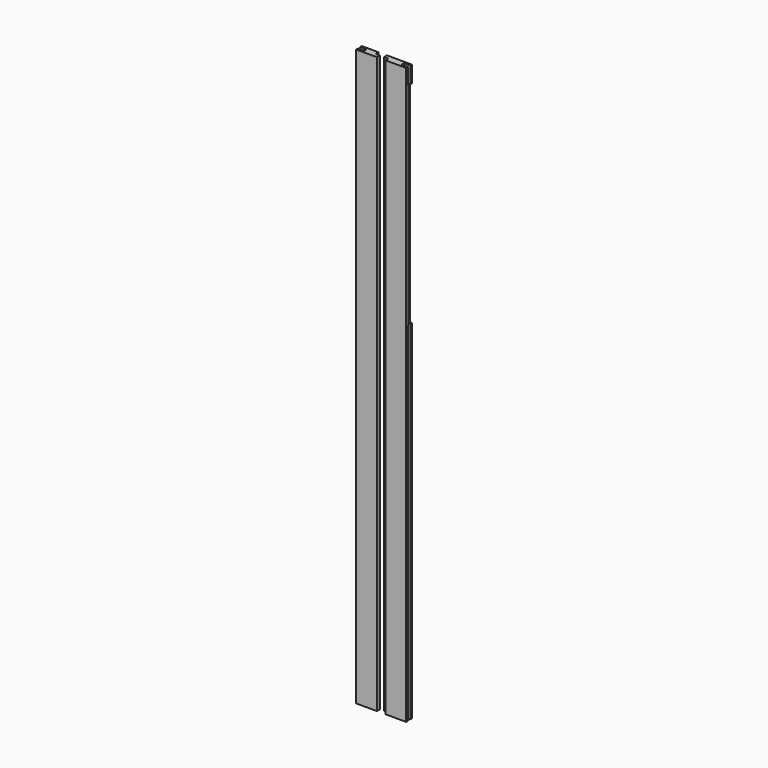
from build123d import *

# Parameters (mm, degrees)
F0_W      = 76.2
F0_H      = 1778
F1_DEPTH  = 22.225
F2_W      = 9.525
F2_H      = 38.1
F2_H_2    = 47.625
F2_H_3    = 53.975
F3_DEPTH  = 38.1
F2_H_4    = 25.4
F2_H_5    = 31.75
F4_DEPTH  = 19.05
F5_W      = 76.2
F5_H      = 12.7
F6_DEPTH  = 22.226
F7_W      = 9.525
F7_H      = 939.8
F8_DEPTH  = 9.525
F10_DEPTH = 6.35
F12_W     = 12.7
F12_H     = 11.1125
F13_DEPTH = 1752.6
F14_W     = 12.7
F14_H     = 11.1125
F15_DEPTH = 1752.6


with BuildPart() as f1:
    # F0 (on Front) → F1 (new body)
    with BuildSketch(Plane.XZ):
        with Locations((-38.1, 889)):
            Rectangle(F0_W, F0_H)
    extrude(amount=F1_DEPTH)

    # F2 (on face) → F3 (cut)
    with BuildSketch(Plane(origin=(-76.2, 0, 0), x_dir=(0, -1, 0), z_dir=(-1, 0, 0))):
        with Locations((11.1125, 1733.55)):
            Rectangle(F2_W, F2_H)
        with Locations((11.1125, 55.5625)):
            Rectangle(F2_W, F2_H_2)
        with Locations((11.1125, 1046.1625)):
            Rectangle(F2_W, F2_H_3)
    extrude(amount=-F3_DEPTH, mode=Mode.SUBTRACT)

    # F2 (on face) → F4 (cut)
    with BuildSketch(Plane(origin=(-76.2, 0, 0), x_dir=(0, -1, 0), z_dir=(-1, 0, 0))):
        with Locations((11.1125, 1765.3)):
            Rectangle(F2_W, F2_H_4)
        with Locations((11.1125, 15.875)):
            Rectangle(F2_W, F2_H_5)
    extrude(amount=-F4_DEPTH, mode=Mode.SUBTRACT)

    # F5 (on face) → F6 (cut, through all)
    with BuildSketch(Plane.XZ.offset(22.225)):
        with Locations((-38.1, 1771.65)):
            Rectangle(F5_W, F5_H)
        with Locations((-38.1, 6.35)):
            Rectangle(F5_W, F5_H)
    extrude(amount=-F6_DEPTH, mode=Mode.SUBTRACT)

    # F7 (on face) → F8 (cut)
    with BuildSketch(Plane(origin=(-76.2, 0, 0), x_dir=(0, -1, 0), z_dir=(-1, 0, 0))):
        with Locations((11.1125, 549.275)):
            Rectangle(F7_W, F7_H)
        with Locations((11.1125, 549.275)):
            Rectangle(F7_W, F7_H)
    extrude(amount=-F8_DEPTH, mode=Mode.SUBTRACT)

    # F9 (on face) → F10 (cut)
    with BuildSketch(Plane(origin=(-76.2, 0, 0), x_dir=(0, -1, 0), z_dir=(-1, 0, 0))):
        Polygon((6.35, 1714.5), (0, 1714.5), (0, 1073.15), (6.35, 1073.15), (12.7, 1073.15), (12.7, 1714.5), align=None)
    extrude(amount=-F10_DEPTH, mode=Mode.SUBTRACT)


with BuildPart() as f11_1:
    # F11: instance of F1
    add(f1.part.mirror(Plane.YZ))

    # F14 (on face) → F15 (cut, through all)
    with BuildSketch(Plane.XY.offset(1765.3)):
        with Locations((6.35, -16.66875)):
            Rectangle(F14_W, F14_H)
    extrude(amount=-F15_DEPTH, mode=Mode.SUBTRACT)


with BuildPart() as f1_1:
    add(f1.part)

    # F12 (on face) → F13 (cut, through all)
    with BuildSketch(Plane.XY.offset(1765.3)):
        Polygon((0, 0), (-25.4, 0), (-25.4, -11.1125), (-12.7, -11.1125), (0, -11.1125), align=None)
        with Locations((-6.35, -16.66875)):
            Rectangle(F12_W, F12_H)
    extrude(amount=-F13_DEPTH, mode=Mode.SUBTRACT)


solid = Compound([f11_1.part, f1_1.part])
